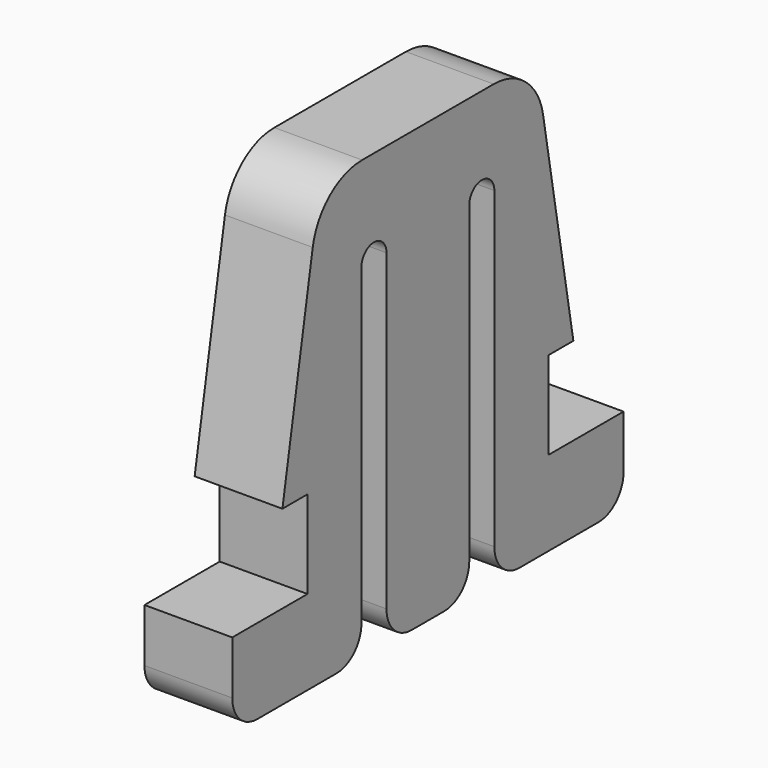
from build123d import *

# Parameters (mm, degrees)
PAD029_DEPTH = 1.4
FILLET005_R  = 2
FILLET006_R  = 1


with BuildPart() as part:
    # Sketch046 → Pad029 (new body, symmetric)
    with BuildSketch(Plane.YZ):
        with BuildLine():
            Line((-25.701481, -40.1), (-24.051481, -40.1))
            Line((-24.051481, -29.1), (-24.051481, -40.1))
            ThreePointArc((-23.051481, -29.1), (-23.551481, -28.6), (-24.051481, -29.1))
            Line((-23.051481, -40.1), (-23.051481, -29.1))
            Line((-23.051481, -40.1), (-17.901481, -40.1))
            Line((-17.901481, -40.1), (-17.901481, -37.4))
            Line((-17.901481, -37.4), (-20.901481, -37.4))
            Line((-20.901481, -37.4), (-20.901481, -34.6))
            Line((-20.901481, -34.6), (-19.901481, -34.6))
            Line((-19.901481, -34.6), (-21.401481, -26.1))
            Line((-21.401481, -26.1), (-25.701481, -26.1))
            Line((-25.701481, -26.1), (-30.001481, -26.1))
            Line((-31.501481, -34.6), (-30.001481, -26.1))
            Line((-30.501481, -34.6), (-31.501481, -34.6))
            Line((-30.501481, -37.4), (-30.501481, -34.6))
            Line((-33.501481, -37.4), (-30.501481, -37.4))
            Line((-33.501481, -40.1), (-33.501481, -37.4))
            Line((-28.351481, -40.1), (-33.501481, -40.1))
            Line((-28.351481, -29.1), (-28.351481, -40.1))
            ThreePointArc((-27.351481, -29.1), (-27.851481, -28.6), (-28.351481, -29.1))
            Line((-27.351481, -40.1), (-27.351481, -29.1))
            Line((-25.701481, -40.1), (-27.351481, -40.1))
        make_face()
    extrude(amount=PAD029_DEPTH, both=True)

    # Fillet005
    fillet005_edges = [part.edges().sort_by_distance(p)[0] for p in [
        (0, -21.401481, -26.1),
        (0, -30.001481, -26.1),
    ]]
    fillet(fillet005_edges, radius=FILLET005_R)

    # Fillet006
    fillet006_edges = [part.edges().sort_by_distance(p)[0] for p in [
        (0, -33.501481, -40.1),
        (0, -17.901481, -40.1),
        (0, -28.351481, -40.1),
        (0, -27.351481, -40.1),
        (0, -24.051481, -40.1),
        (0, -23.051481, -40.1),
    ]]
    fillet(fillet006_edges, radius=FILLET006_R)


solid = part.part
